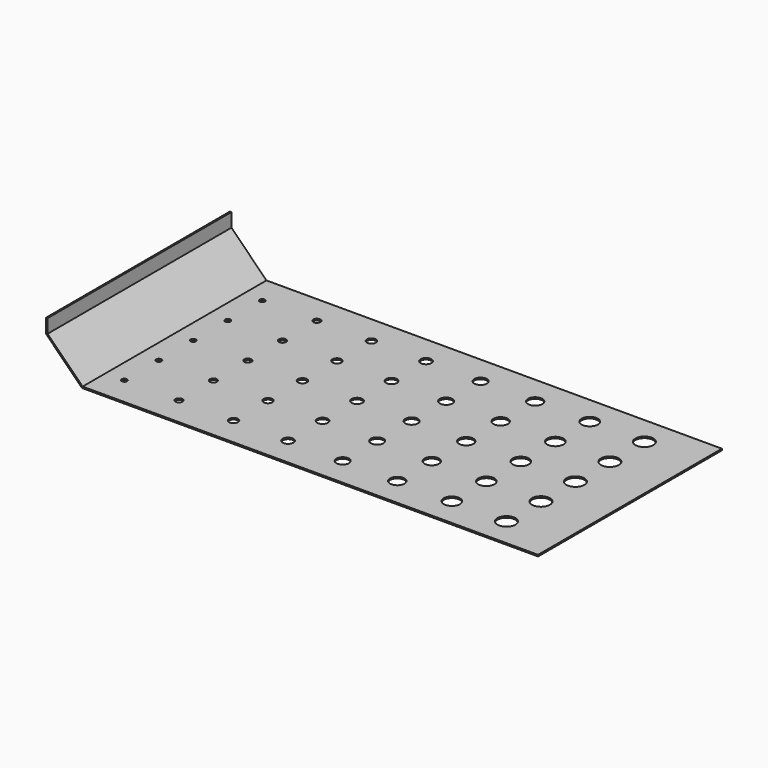
from build123d import *

# Parameters (mm, degrees)
F0_W     = 869.95
F0_H     = 406.4
F1_DEPTH = 88.9
F2_SIZE  = 63.5
F3_T     = -2.6416
F5_D     = 9.525
F6_D     = 12.7
F7_D     = 15.875
F8_D     = 19.05
F9_D     = 22.225
F10_D    = 25.4
F11_D    = 28.575
F12_D    = 31.75


with BuildPart() as f1:
    # F0 (on Top) → F1 (new body)
    with BuildSketch(Plane.XY):
        with Locations((434.975, -203.2)):
            Rectangle(F0_W, F0_H)
    extrude(amount=F1_DEPTH)

    # F2
    f2_edges = [f1.edges().sort_by_distance(p)[0] for p in [
        (0, -203.2, 0),
    ]]
    chamfer(f2_edges, length=F2_SIZE)

    # F3
    f3_openings = [f1.faces().sort_by_distance(p)[0] for p in [
        (434.975, -203.2, 88.9),
        (446.05124, -406.4, 45.073216),
        (446.05124, 0, 45.073216),
        (869.95, -203.2, 44.45),
    ]]
    offset(amount=F3_T, openings=f3_openings)

    # F5 (through all)
    with Locations(Plane.XY.offset(2.6416)):
        with Locations((97.79, -50.8), (97.79, -127), (97.79, -203.2), (97.79, -279.4), (97.79, -355.6)):
            Hole(F5_D / 2)

    # F6 (through all)
    with Locations(Plane.XY.offset(2.6416)):
        with Locations((194.31, -50.8), (194.31, -127), (194.31, -203.2), (194.31, -279.4), (194.31, -355.6)):
            Hole(F6_D / 2)

    # F7 (through all)
    with Locations(Plane.XY.offset(2.6416)):
        with Locations((290.83, -50.8), (290.83, -127), (290.83, -203.2), (290.83, -279.4), (290.83, -355.6)):
            Hole(F7_D / 2)

    # F8 (through all)
    with Locations(Plane.XY.offset(2.6416)):
        with Locations((387.35, -355.6), (387.35, -279.4), (387.35, -203.2), (387.35, -127), (387.35, -50.8)):
            Hole(F8_D / 2)

    # F9 (through all)
    with Locations(Plane.XY.offset(2.6416)):
        with Locations((483.87, -355.6), (483.87, -279.4), (483.87, -203.2), (483.87, -127), (483.87, -50.8)):
            Hole(F9_D / 2)

    # F10 (through all)
    with Locations(Plane.XY.offset(2.6416)):
        with Locations((580.39, -355.6), (580.39, -279.4), (580.39, -203.2), (580.39, -127), (580.39, -50.8)):
            Hole(F10_D / 2)

    # F11 (through all)
    with Locations(Plane.XY.offset(2.6416)):
        with Locations((676.91, -355.6), (676.91, -279.4), (676.91, -203.2), (676.91, -127), (676.91, -50.8)):
            Hole(F11_D / 2)

    # F12 (through all)
    with Locations(Plane.XY.offset(2.6416)):
        with Locations((773.43, -355.6), (773.43, -279.4), (773.43, -203.2), (773.43, -127), (773.43, -50.8)):
            Hole(F12_D / 2)


solid = f1.part
